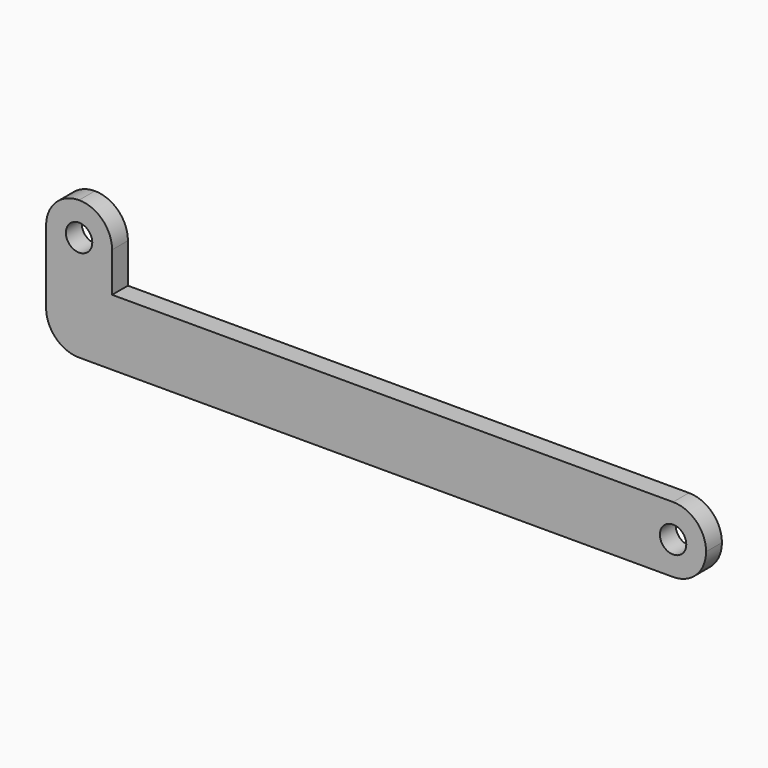
from build123d import *

# Parameters (mm, degrees)
F0_R     = 1
F1_DEPTH = 0.75


with BuildPart() as f1:
    # F0 (on Front) → F1 (new body, symmetric)
    with BuildSketch(Plane.XZ):
        with BuildLine():
            Line((-22.5, 0), (0, 0))
            Line((0, 0), (22.5, 0))
            ThreePointArc((22.5, 0), (24.267767, 0.732233), (25, 2.5))
            ThreePointArc((25, 2.5), (24.267767, 4.267767), (22.5, 5))
            Line((22.5, 5), (0, 5))
            Line((0, 5), (-20, 5))
            Line((-20, 5), (-20, 8))
            ThreePointArc((-20, 8), (-20.732233, 9.767767), (-22.5, 10.5))
            ThreePointArc((-22.5, 10.5), (-24.267767, 9.767767), (-25, 8))
            Line((-25, 8), (-25, 2.5))
            ThreePointArc((-25, 2.5), (-24.267767, 0.732233), (-22.5, 0))
        make_face()
        with Locations((22.5, 2.5)):
            Circle(F0_R, mode=Mode.SUBTRACT)
        with Locations((-22.5, 8)):
            Circle(F0_R, mode=Mode.SUBTRACT)
    extrude(amount=F1_DEPTH, both=True)


solid = f1.part
